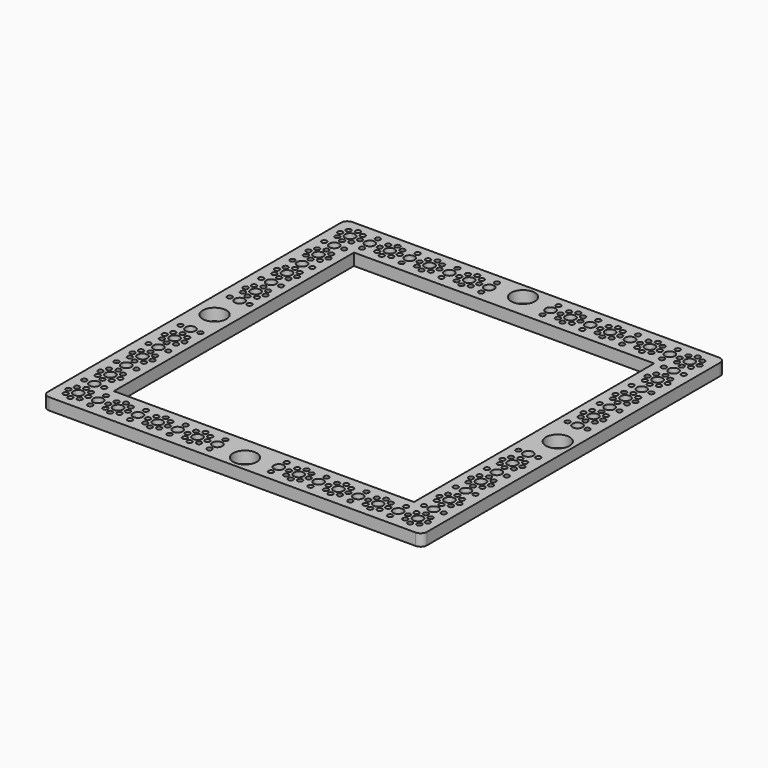
from build123d import *

# Parameters (mm, degrees)
F0_W     = 304.8
F0_H     = 304.8
F0_W_2   = 241.3
F0_H_2   = 241.3
F1_DEPTH = 9.525
F3_D     = 19.05
F4_R     = 5.08
F5_R     = 5.08
F7_D     = 4.0132
F8_D     = 4.0132
F9_D     = 4.0132
F10_D    = 4.0132
F11_D    = 8.001


with BuildPart() as f1:
    # F0 (on Top) → F1 (new body)
    with BuildSketch(Plane.XY):
        Rectangle(F0_W, F0_H)
        Rectangle(F0_W_2, F0_H_2, mode=Mode.SUBTRACT)
    extrude(amount=F1_DEPTH)

    # F3 (through all)
    with Locations(Plane.XY.offset(9.525)):
        with Locations((0, 139.7), (139.7, 0), (0, -139.7), (-136.205971, 0)):
            Hole(F3_D / 2)

    # F4
    f4_edges = [f1.edges().sort_by_distance(p)[0] for p in [
        (-152.4, 152.4, 4.7625),
    ]]
    fillet(f4_edges, radius=F4_R)

    # F5
    f5_edges = [f1.edges().sort_by_distance(p)[0] for p in [
        (152.4, 152.4, 4.7625),
        (152.4, -152.4, 4.7625),
        (-152.4, -152.4, 4.7625),
    ]]
    fillet(f5_edges, radius=F5_R)

    # F7 (through all)
    with Locations(Plane.XY.offset(9.525)):
        with Locations((-46.327427, -142.172739), (-72.628125, -128.537891), (-128.306058, -104.577404), (-136.061334, -80.616917), (-24.705469, -128.537891), (-128.537891, -136.525), (-110.224302, -142.172739), (-130.877261, -130.877261), (-104.576563, -128.537891), (-130.413595, -78.277547), (-128.537891, -120.551202), (-24.705469, -144.512109), (-128.074225, -56.655589), (-141.940906, -98.929664), (-128.306058, -88.359945), (-130.645428, -110.225143), (-35.031948, -142.172739), (-128.074225, -72.629807), (-98.928823, -130.877261), (-112.563672, -136.525), (-136.525, -128.537891), (-98.928823, -142.172739), (-40.679688, -128.537891), (-127.842392, -40.682211), (-136.525, -144.512109), (-56.653906, -144.512109), (-144.512109, -120.551202), (-130.413595, -66.982068), (-144.512109, -136.525), (-120.550781, -144.512109), (-78.275864, -130.877261), (-46.327427, -130.877261), (-142.172739, -142.172739), (-110.224302, -130.877261), (-127.842392, -24.707992), (-135.829501, -32.695102), (-142.172739, -130.877261), (-66.980386, -130.877261), (-88.602344, -128.537891), (-72.628125, -144.512109), (-130.181762, -35.034472), (-120.550781, -128.537891), (-130.877261, -142.172739), (-143.81661, -24.707992), (-141.47724, -35.034472), (-141.709073, -78.277547), (-56.653906, -128.537891), (-136.293167, -112.564513), (-35.031948, -130.877261), (-141.940906, -110.225143), (-78.275864, -142.172739), (-144.280276, -88.359945), (-141.709073, -66.982068), (-136.293167, -96.590294), (-88.602344, -144.512109), (-141.47724, -46.32995), (-144.048443, -56.655589), (-130.645428, -98.929664), (-130.181762, -46.32995), (-135.829501, -48.66932), (-96.589453, -136.525), (-40.679688, -144.512109), (-143.81661, -40.682211), (-136.061334, -64.642698), (-48.666797, -136.525), (-80.615234, -136.525), (-64.641016, -136.525), (-32.692578, -136.525), (-144.280276, -104.577404), (-104.576563, -144.512109), (-144.048443, -72.629807), (-66.980386, -142.172739)):
            Hole(F7_D / 2)

    # F8 (through all)
    with Locations(Plane.XY.offset(9.525)):
        with Locations((-110.224302, 142.172739), (-24.705469, 128.537891), (-66.980386, 142.172739), (-32.692578, 136.525), (-141.47724, 46.32995), (-98.928823, 142.172739), (-35.031948, 130.877261), (-143.81661, 24.707992), (-128.306058, 104.577404), (-128.074225, 56.655589), (-128.537891, 120.551202), (-144.048443, 72.629807), (-130.877261, 130.877261), (-80.615234, 136.525), (-141.709073, 78.277547), (-104.576563, 128.537891), (-141.709073, 66.982068), (-72.628125, 144.512109), (-142.172739, 142.172739), (-130.877261, 142.172739), (-130.413595, 78.277547), (-78.275864, 130.877261), (-135.829501, 48.66932), (-136.525, 128.537891), (-144.048443, 56.655589), (-141.47724, 35.034472), (-142.172739, 130.877261), (-88.602344, 128.537891), (-144.280276, 88.359945), (-135.829501, 32.695102), (-56.653906, 144.512109), (-127.842392, 40.682211), (-46.327427, 142.172739), (-110.224302, 130.877261), (-88.602344, 144.512109), (-40.679688, 128.537891), (-120.550781, 128.537891), (-35.031948, 142.172739), (-72.628125, 128.537891), (-136.525, 144.512109), (-128.537891, 136.525), (-130.645428, 110.225143), (-56.653906, 128.537891), (-141.940906, 110.225143), (-128.306058, 88.359945), (-78.275864, 142.172739), (-127.842392, 24.707992), (-66.980386, 130.877261), (-46.327427, 130.877261), (-98.928823, 130.877261), (-120.550781, 144.512109), (-144.512109, 120.551202), (-130.413595, 66.982068), (-112.563672, 136.525), (-144.280276, 104.577404), (-24.705469, 144.512109), (-64.641016, 136.525), (-48.666797, 136.525), (-130.181762, 35.034472), (-128.074225, 72.629807), (-136.293167, 112.564513), (-141.940906, 98.929664), (-104.576563, 144.512109), (-143.81661, 40.682211), (-130.181762, 46.32995), (-136.061334, 80.616917), (-136.293167, 96.590294), (-40.679688, 144.512109), (-96.589453, 136.525), (-136.061334, 64.642698), (-144.512109, 136.525), (-130.645428, 98.929664)):
            Hole(F8_D / 2)

    # F9 (through all)
    with Locations(Plane.XY.offset(9.525)):
        with Locations((141.709073, 66.982068), (72.628125, 128.537891), (144.048443, 56.655589), (88.602344, 128.537891), (56.653906, 128.537891), (130.413595, 66.982068), (120.550781, 144.512109), (46.327427, 142.172739), (128.537891, 136.525), (112.563672, 136.525), (135.829501, 32.695102), (32.692578, 136.525), (24.705469, 128.537891), (142.172739, 142.172739), (110.224302, 130.877261), (144.280276, 88.359945), (130.645428, 98.929664), (130.181762, 35.034472), (141.940906, 98.929664), (120.550781, 128.537891), (144.512109, 136.525), (104.576563, 128.537891), (128.537891, 120.551202), (98.928823, 130.877261), (141.709073, 78.277547), (24.705469, 144.512109), (35.031948, 142.172739), (66.980386, 130.877261), (35.031948, 130.877261), (98.928823, 142.172739), (144.048443, 72.629807), (56.653906, 144.512109), (104.576563, 144.512109), (128.306058, 88.359945), (127.842392, 24.707992), (141.940906, 110.225143), (130.413595, 78.277547), (40.679688, 128.537891), (78.275864, 130.877261), (128.074225, 72.629807), (110.224302, 142.172739), (66.980386, 142.172739), (130.877261, 142.172739), (144.512109, 120.551202), (136.293167, 112.564513), (88.602344, 144.512109), (143.81661, 40.682211), (128.074225, 56.655589), (78.275864, 142.172739), (136.061334, 64.642698), (143.81661, 24.707992), (128.306058, 104.577404), (127.842392, 40.682211), (130.645428, 110.225143), (80.615234, 136.525), (130.877261, 130.877261), (141.47724, 46.32995), (130.181762, 46.32995), (144.280276, 104.577404), (46.327427, 130.877261), (64.641016, 136.525), (40.679688, 144.512109), (48.666797, 136.525), (136.061334, 80.616917), (136.293167, 96.590294), (141.47724, 35.034472), (142.172739, 130.877261), (136.525, 144.512109), (135.829501, 48.66932), (136.525, 128.537891), (72.628125, 144.512109), (96.589453, 136.525)):
            Hole(F9_D / 2)

    # F10 (through all)
    with Locations(Plane.XY.offset(9.525)):
        with Locations((130.413595, -66.982068), (135.829501, -32.695102), (143.81661, -40.682211), (143.81661, -24.707992), (141.940906, -98.929664), (88.602344, -128.537891), (141.709073, -66.982068), (136.525, -128.537891), (144.512109, -136.525), (120.550781, -128.537891), (56.653906, -128.537891), (110.224302, -142.172739), (141.940906, -110.225143), (130.877261, -142.172739), (120.550781, -144.512109), (56.653906, -144.512109), (72.628125, -128.537891), (78.275864, -130.877261), (142.172739, -130.877261), (98.928823, -130.877261), (144.048443, -56.655589), (130.645428, -98.929664), (136.525, -144.512109), (144.512109, -120.551202), (128.306058, -88.359945), (66.980386, -130.877261), (46.327427, -142.172739), (46.327427, -130.877261), (141.709073, -78.277547), (66.980386, -142.172739), (104.576563, -128.537891), (142.172739, -142.172739), (40.679688, -128.537891), (72.628125, -144.512109), (127.842392, -24.707992), (130.877261, -130.877261), (135.829501, -48.66932), (144.280276, -88.359945), (130.645428, -110.225143), (128.074225, -72.629807), (130.413595, -78.277547), (78.275864, -142.172739), (128.074225, -56.655589), (127.842392, -40.682211), (88.602344, -144.512109), (24.705469, -128.537891), (40.679688, -144.512109), (112.563672, -136.525), (24.705469, -144.512109), (80.615234, -136.525), (130.181762, -35.034472), (128.537891, -120.551202), (128.306058, -104.577404), (104.576563, -144.512109), (35.031948, -130.877261), (130.181762, -46.32995), (136.293167, -96.590294), (35.031948, -142.172739), (32.692578, -136.525), (141.47724, -46.32995), (144.048443, -72.629807), (136.293167, -112.564513), (96.589453, -136.525), (64.641016, -136.525), (141.47724, -35.034472), (136.061334, -80.616917), (128.537891, -136.525), (144.280276, -104.577404), (48.666797, -136.525), (136.061334, -64.642698), (110.224302, -130.877261), (98.928823, -142.172739)):
            Hole(F10_D / 2)

    # F11 (through all)
    with Locations(Plane.XY.offset(9.525)):
        with Locations((-136.525, -136.525), (-136.409084, -120.551202), (-136.293167, -104.577404), (-136.525, -88.359945), (-136.061334, -72.629807), (-136.061334, -56.655589), (-135.829501, -40.682211), (-135.829501, -24.707992), (-135.829501, 24.707992), (-135.829501, 40.682211), (-136.061334, 56.655589), (-136.061334, 72.629807), (-136.525, 88.359945), (-136.293167, 104.577404), (-136.409084, 120.551202), (-136.525, 136.525), (-120.550781, 136.525), (-104.576563, 136.525), (-88.602344, 136.525), (-72.628125, 136.525), (-56.653906, 136.525), (-40.679688, 136.525), (-24.705469, 136.525), (24.705469, 136.525), (40.679688, 136.525), (56.653906, 136.525), (72.628125, 136.525), (88.602344, 136.525), (104.576563, 136.525), (120.550781, 136.525), (136.525, 136.525), (136.409084, 120.551202), (136.293167, 104.577404), (136.525, 88.359945), (136.061334, 72.629807), (136.061334, 56.655589), (135.829501, 40.682211), (135.829501, 24.707992), (135.829501, -24.707992), (135.829501, -40.682211), (136.061334, -56.655589), (136.061334, -72.629807), (136.525, -88.359945), (136.293167, -104.577404), (136.409084, -120.551202), (136.525, -136.525), (120.550781, -136.525), (104.576563, -136.525), (88.602344, -136.525), (72.628125, -136.525), (56.653906, -136.525), (40.679688, -136.525), (24.705469, -136.525), (-24.705469, -136.525), (-40.679688, -136.525), (-56.653906, -136.525), (-72.628125, -136.525), (-88.602344, -136.525), (-104.576563, -136.525), (-120.550781, -136.525)):
            Hole(F11_D / 2)


solid = f1.part
